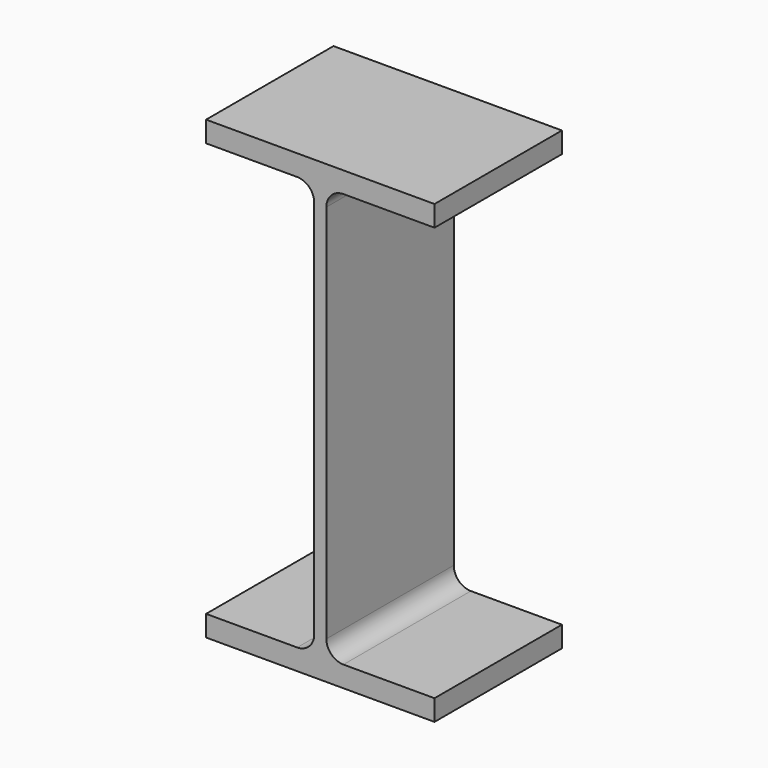
from build123d import *

# Parameters (mm, degrees)
F1_DEPTH = 1803


with BuildPart() as f1:
    # F0 (on Front) → F1 (new body)
    with BuildSketch(Plane.XZ):
        with BuildLine():
            Line((1292.86, 2580.64), (-1292.86, 2580.64))
            Line((-1292.86, 2580.64), (-1292.86, 2344.42))
            Line((-1292.86, 2344.42), (-261.62, 2344.42))
            ThreePointArc((-261.62, 2344.42), (-125.120107, 2287.879893), (-68.58, 2151.38))
            Line((-68.58, 2151.38), (-68.58, -2151.38))
            ThreePointArc((-68.58, -2151.38), (-125.120107, -2287.879893), (-261.62, -2344.42))
            Line((-261.62, -2344.42), (-1292.86, -2344.42))
            Line((-1292.86, -2344.42), (-1292.86, -2580.64))
            Line((-1292.86, -2580.64), (1292.86, -2580.64))
            Line((1292.86, -2580.64), (1292.86, -2344.42))
            Line((1292.86, -2344.42), (261.62, -2344.42))
            ThreePointArc((261.62, -2344.42), (125.120107, -2287.879893), (68.58, -2151.38))
            Line((68.58, -2151.38), (68.58, 2151.38))
            ThreePointArc((68.58, 2151.38), (125.120107, 2287.879893), (261.62, 2344.42))
            Line((261.62, 2344.42), (1292.86, 2344.42))
            Line((1292.86, 2344.42), (1292.86, 2580.64))
        make_face()
    extrude(amount=F1_DEPTH)


solid = f1.part
